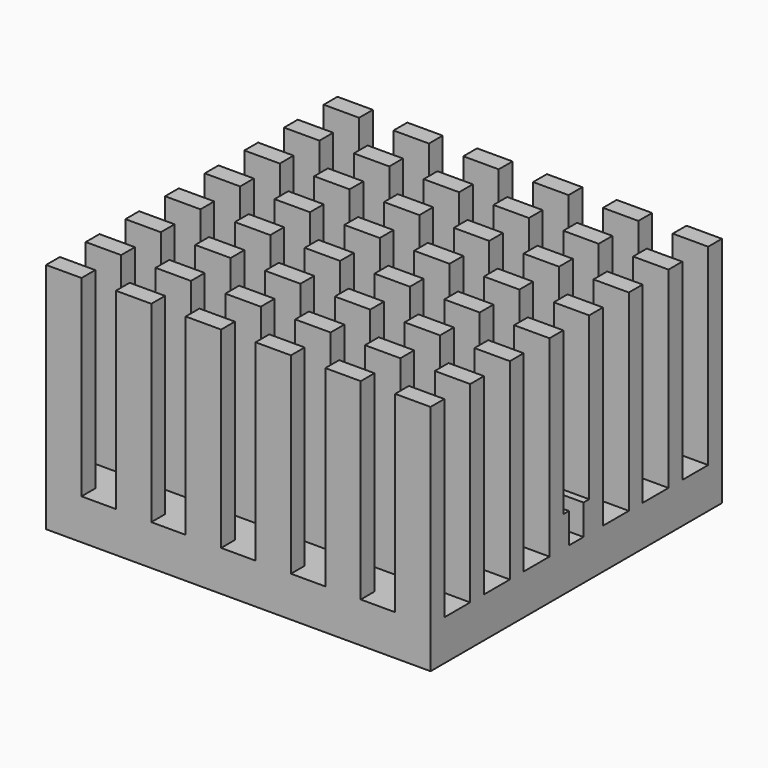
from build123d import *

# Parameters (mm, degrees)
SKETCH_W             = 38
SKETCH_H             = 36
PAD_DEPTH            = 23
POCKET_DEPTH         = 38.001
POCKET001_DEPTH      = 18.001
POCKET001_DEPTH_BACK = -18.001


with BuildPart() as part:
    # Sketch → Pad (new body)
    with BuildSketch(Plane.XY):
        Rectangle(SKETCH_W, SKETCH_H)
    extrude(amount=PAD_DEPTH)

    # Sketch001 (on Face2 of Pad) → Pocket (cut, through all)
    with BuildSketch(Plane.YZ.offset(19)):
        Polygon((-18, 4), (-21, 4), (-21, 26), (21, 26), (21, 4), (18, 4), (18, 23), (16.3, 23), (16.3, 4), (13.1, 4), (13.1, 23), (11.4, 23), (11.4, 4), (8.2, 4), (8.2, 23), (6.5, 23), (6.5, 4), (3.3, 4), (3.3, 23), (1.6, 23), (1.6, 7), (0.9, 7), (0.9, 4), (-0.9, 4), (-0.9, 7), (-1.6, 7), (-1.6, 23), (-3.3, 23), (-3.3, 4), (-6.5, 4), (-6.5, 23), (-8.2, 23), (-8.2, 4), (-11.4, 4), (-11.4, 23), (-13.1, 23), (-13.1, 4), (-16.3, 4), (-16.3, 23), (-18, 23), align=None)
    extrude(amount=-POCKET_DEPTH, mode=Mode.SUBTRACT)

    # Sketch002 → Pocket001 (cut, two sides)
    with BuildSketch(Plane.XZ) as pocket001_sk:
        Polygon((-19, 23), (-19, 4), (-22.4, 4), (-22.4, 26.4), (22.4, 26.4), (22.4, 4), (19, 4), (19, 23), (15.5, 23), (15.5, 4), (12.1, 4), (12.1, 23), (8.6, 23), (8.6, 4), (5.2, 4), (5.2, 23), (1.7, 23), (1.7, 4), (-1.7, 4), (-1.7, 23), (-5.2, 23), (-5.2, 4), (-8.6, 4), (-8.6, 23), (-12.1, 23), (-12.1, 4), (-15.5, 4), (-15.5, 23), align=None)
    extrude(amount=-POCKET001_DEPTH, mode=Mode.SUBTRACT)
    extrude(pocket001_sk.sketch, amount=-POCKET001_DEPTH_BACK, mode=Mode.SUBTRACT)


solid = part.part
